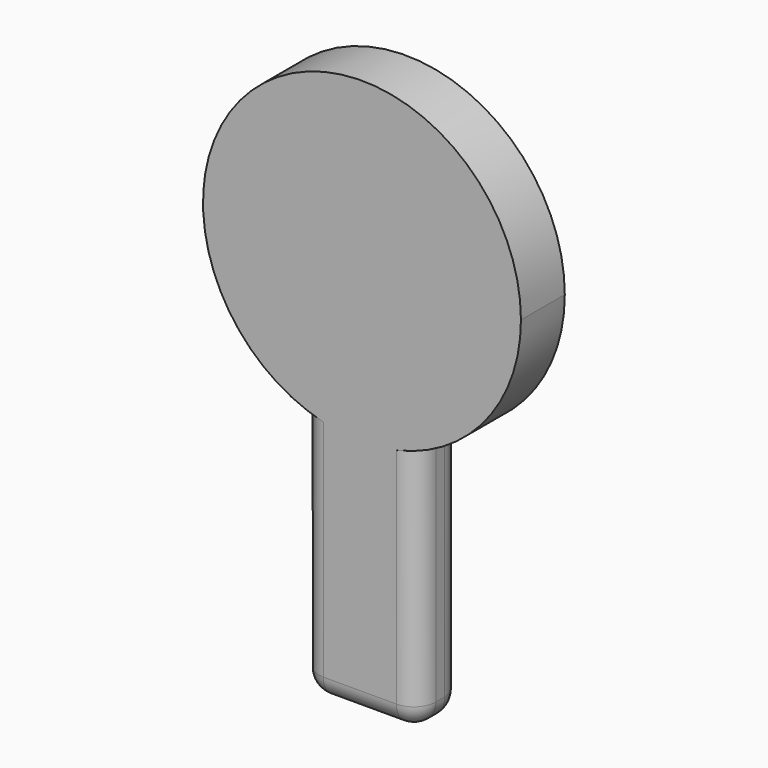
from build123d import *

# Parameters (mm, degrees)
F1_DEPTH = 12.7
F2_R     = 5.08


with BuildPart() as f1:
    # F0 (on Front) → F1 (new body)
    with BuildSketch(Plane.XZ):
        with BuildLine():
            ThreePointArc((13.0628570914, 2.3099483364), (30.3113339089, 15.8249397069), (36.83, 36.7455500389))
            ThreePointArc((36.83, 36.7455500389), (-20.4826154647, 67.3545579242), (-14.0476195344, 2.6997972139))
            Line((-14.0476195344, 2.6997972139), (13.0628570914, 2.6997972139))
            Line((13.0628570914, 2.6997972139), (13.0628570914, 2.3099483364))
        make_face()
        with BuildLine():
            Line((13.0628570914, 2.6997972139), (-14.0476195344, 2.6997972139))
            ThreePointArc((-14.0476195344, 2.6997972139), (-0.5295609541, -0.0806426125), (13.0628570914, 2.3099483364))
            Line((13.0628570914, 2.3099483364), (13.0628570914, 2.6997972139))
        make_face()
        with BuildLine():
            ThreePointArc((13.0628570914, 2.3099483364), (-0.5295609541, -0.0806426125), (-14.0476195344, 2.6997972139))
            Line((-14.0476195344, 2.6997972139), (-14.0476195344, -56.0614280403))
            Line((-14.0476195344, -56.0614280403), (13.0628570914, -56.0614280403))
            Line((13.0628570914, -56.0614280403), (13.0628570914, 2.3099483364))
        make_face()
    extrude(amount=F1_DEPTH)

    # F2
    f2_edges = [f1.edges().sort_by_distance(p)[0] for p in [
        (-14.04762, -12.7, -26.680815),
        (-14.04762, 0, -26.680815),
        (-0.492381, -12.7, -56.061428),
        (13.062857, -12.7, -26.87574),
        (13.062857, 0, -26.87574),
        (-14.04762, -6.35, -56.061428),
        (13.062857, -6.35, -56.061428),
        (-0.492381, 0, -56.061428),
    ]]
    fillet(f2_edges, radius=F2_R)


solid = f1.part
